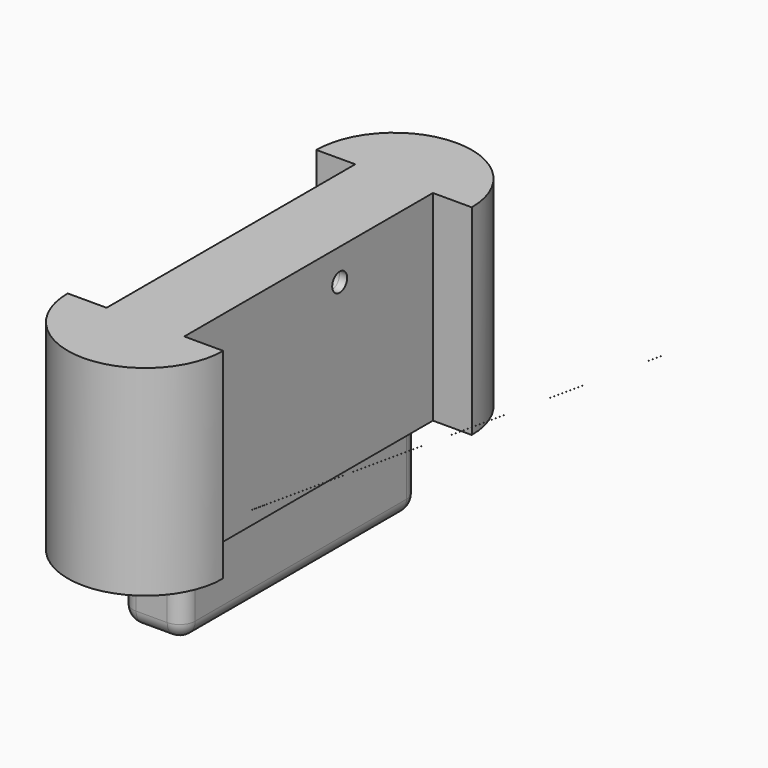
from build123d import *

# Parameters (mm, degrees)
CYLINDER045_R                = 0.6
CYLINDER045_DEPTH            = 10
CYLINDER044_R                = 0.6
CYLINDER044_DEPTH            = 2
CYLINDER044_ROLL_ANGLE       = 90
SKETCH016_R                  = 0.6
SWEEP007_PITCH_ANGLE         = 90
SKETCH014_R                  = 0.6
SWEEP006_ROLL_ANGLE          = -90
SKETCH018_R                  = 0.6
SWEEP008_ROLL_ANGLE          = -89.995832
SWEEP008_PITCH_ANGLE         = -0.004169
SWEEP008_PLACEMENT_ANGLE     = 90.008336
CYLINDER018_W                = 5
CYLINDER018_H                = 12.9
CYLINDER018_ANGLE            = 180
CYLINDER019_W                = 5
CYLINDER019_H                = 12.9
CYLINDER019_ANGLE            = 180
CYLINDER043_R                = 0.75
CYLINDER043_DEPTH            = 10
CYLINDER042_R                = 0.75
CYLINDER042_DEPTH            = 10
BOX019_W                     = 4
BOX019_H                     = 19
BOX019_DEPTH                 = 5
FILLET004_R                  = 1
FILLET005_R                  = 1
FILLET006_R                  = 1
FILLET007_R                  = 1
BOX018_W                     = 5
BOX018_H                     = 20
BOX018_DEPTH                 = 12.9
FUSION002013_PLACEMENT_ANGLE = 180
CUT064_PLACEMENT_ANGLE       = 180


with BuildPart() as cilindro045:
    # Cylinder045 → Cylinder045 (new body)
    with BuildSketch(Plane(origin=(22, -4, -17), x_dir=(1, 0, 0), z_dir=(0, 0, 1))):
        Circle(CYLINDER045_R)
    extrude(amount=CYLINDER045_DEPTH)


with BuildPart() as cilindro044:
    # Cylinder044 → Cylinder044 (new body)
    with BuildSketch(Plane.XY):
        Circle(CYLINDER044_R)
    extrude(amount=CYLINDER044_DEPTH)


with BuildPart() as cilindro044_1:
    # Cylinder044 roll: moved
    add(cilindro044.part.rotate(Axis((0, 0, 0), (1, 0, 0)), CYLINDER044_ROLL_ANGLE))


with BuildPart() as cilindro044_2:
    # Cylinder044 placement: moved
    add(cilindro044_1.part.moved(Location((22, -8, -4))))


with BuildPart() as sweep007:
    # Sweep007: sweep along a path in Sketch015
    with BuildLine(Plane.XY) as sweep007_path:
        Line((0, 0), (2.000007, 0))
        ThreePointArc((2.000007, 0), (3.413537, 0.585387), (3.999404, 1.998718))
        Line((3.999404, 1.998718), (3.999404, 3.99963))
    # Sketch016 → Sweep007 (sweep)
    with BuildSketch(Plane.YZ):
        Circle(SKETCH016_R)
    sweep(path=sweep007_path.line, transition=Transition.RIGHT)


with BuildPart() as sweep007_1:
    # Sweep007 pitch: moved
    add(sweep007.part.rotate(Axis((0, 0, 0), (0, 1, 0)), SWEEP007_PITCH_ANGLE))


with BuildPart() as sweep007_2:
    # Sweep007 placement: moved
    add(sweep007_1.part.moved(Location((22, -13, 0))))


with BuildPart() as sweep006:
    # Sweep006: sweep along a path in Sketch013
    with BuildLine(Plane.XY) as sweep006_path:
        Line((0, 0), (2.000007, 0))
        ThreePointArc((2.000007, 0), (3.413537, 0.585387), (3.999404, 1.998718))
        Line((3.999404, 1.998718), (3.999404, 3.99963))
    # Sketch014 → Sweep006 (sweep)
    with BuildSketch(Plane.YZ):
        Circle(SKETCH014_R)
    sweep(path=sweep006_path.line, transition=Transition.RIGHT)


with BuildPart() as sweep006_1:
    # Sweep006 roll: moved
    add(sweep006.part.rotate(Axis((0, 0, 0), (1, 0, 0)), SWEEP006_ROLL_ANGLE))


with BuildPart() as sweep006_2:
    # Sweep006 placement: moved
    add(sweep006_1.part.moved(Location((18, -13, 3))))


with BuildPart() as fusion002014:
    # Sweep008: sweep along a path in Sketch017
    with BuildLine(Plane.XY) as sweep008_path:
        Line((0, 0), (2.000007, 0))
        ThreePointArc((2.000007, 0), (3.413537, 0.585387), (3.999404, 1.998718))
        Line((3.999404, 1.998718), (3.999404, 3.99963))
    # Sketch018 → Sweep008 (sweep)
    with BuildSketch(Plane.YZ):
        Circle(SKETCH018_R)
    sweep(path=sweep008_path.line, transition=Transition.RIGHT)


with BuildPart() as fusion002014_1:
    # Sweep008 roll: moved
    add(fusion002014.part.rotate(Axis((0, 0, 0), (1, 0, 0)), SWEEP008_ROLL_ANGLE))


with BuildPart() as fusion002014_2:
    # Sweep008 pitch: moved
    add(fusion002014_1.part.rotate(Axis((0, 0, 0), (0, 1, 0)), SWEEP008_PITCH_ANGLE))


with BuildPart() as fusion002014_3:
    # Sweep008 placement: moved
    add(fusion002014_2.part.moved(Location((22, -8, -4))).rotate(Axis((22, -8, -4), (0, 0, 1)), SWEEP008_PLACEMENT_ANGLE))

    # Fusion002014: union Cilindro045, Cilindro044, Sweep007, Sweep006
    add(cilindro045.part)
    add(cilindro044_2.part)
    add(sweep007_2.part)
    add(sweep006_2.part)


with BuildPart() as fusion002014_4:
    # Fusion002014 placement: moved
    add(fusion002014_3.part.moved(Location((-1.1, 0, 0))))


with BuildPart() as cilindro018:
    # Cylinder018 → Cylinder018 (revolve)
    with BuildSketch(Plane(origin=(21.5, 76, -4), x_dir=(1, 0, 0), z_dir=(0, -1, 0))):
        with Locations((2.5, 6.45)):
            Rectangle(CYLINDER018_W, CYLINDER018_H)
    revolve(axis=Axis((21.5, 76, -4), (0, 0, 1)), revolution_arc=CYLINDER018_ANGLE)


with BuildPart() as cilindro019:
    # Cylinder019 → Cylinder019 (revolve)
    with BuildSketch(Plane(origin=(21.5, 56, 8.9), x_dir=(1, 0, 0), z_dir=(0, 1, 0))):
        with Locations((2.5, 6.45)):
            Rectangle(CYLINDER019_W, CYLINDER019_H)
    revolve(axis=Axis((21.5, 56, 8.9), (0, 0, -1)), revolution_arc=CYLINDER019_ANGLE)


with BuildPart() as cilindro043:
    # Cylinder043 → Cylinder043 (new body)
    with BuildSketch(Plane(origin=(-39, 66, 48), x_dir=(1, 0, 0), z_dir=(0, 0, 1))):
        Circle(CYLINDER043_R)
    extrude(amount=CYLINDER043_DEPTH)


with BuildPart() as cilindro042:
    # Cylinder042 → Cylinder042 (new body)
    with BuildSketch(Plane(origin=(-39, 53, 48), x_dir=(1, 0, 0), z_dir=(0, 0, 1))):
        Circle(CYLINDER042_R)
    extrude(amount=CYLINDER042_DEPTH)


with BuildPart() as cut063:
    # Box019 → Box019 (new body)
    with BuildSketch(Plane(origin=(-2, 50, 45), x_dir=(1, 0, 0), z_dir=(0, 0, 1))):
        with Locations((2, 9.5)):
            Rectangle(BOX019_W, BOX019_H)
    extrude(amount=BOX019_DEPTH)

    # Fillet004
    fillet004_edges = [cut063.edges().sort_by_distance(p)[0] for p in [
        (2, 59.5, 50),
    ]]
    fillet(fillet004_edges, radius=FILLET004_R)

    # Fillet005
    fillet005_edges = [cut063.edges().sort_by_distance(p)[0] for p in [
        (-2, 59.5, 50),
    ]]
    fillet(fillet005_edges, radius=FILLET005_R)

    # Fillet006
    fillet006_edges = [cut063.edges().sort_by_distance(p)[0] for p in [
        (0, 69, 50),
    ]]
    fillet(fillet006_edges, radius=FILLET006_R)

    # Fillet007
    fillet007_edges = [cut063.edges().sort_by_distance(p)[0] for p in [
        (0, 50, 50),
    ]]
    fillet(fillet007_edges, radius=FILLET007_R)


with BuildPart() as cut063_1:
    # Fillet007 placement: moved
    add(cut063.part.moved(Location((-39, 0, 0))))

    # Cut062: cut Cilindro042
    add(cilindro042.part, mode=Mode.SUBTRACT)

    # Cut063: cut Cilindro043
    add(cilindro043.part, mode=Mode.SUBTRACT)


with BuildPart() as cut063_2:
    # Cut063 placement: moved
    add(cut063_1.part.moved(Location((60.5, 6.5, -36.1))))


with BuildPart() as cut064:
    # Box018 → Box018 (new body)
    with BuildSketch(Plane(origin=(19, 56, -4), x_dir=(1, 0, 0), z_dir=(0, 0, 1))):
        with Locations((2.5, 10)):
            Rectangle(BOX018_W, BOX018_H)
    extrude(amount=BOX018_DEPTH)

    # Fusion002013: union Cilindro018, Cilindro019, Cut063
    add(cilindro018.part)
    add(cilindro019.part)
    add(cut063_2.part)


with BuildPart() as cut064_1:
    # Fusion002013 placement: moved
    add(cut064.part.moved(Location((42.4, -76.5, 1))).rotate(Axis((42.4, -76.5, 1), (0, 1, 0)), FUSION002013_PLACEMENT_ANGLE))

    # Cut064: cut Fusion002014
    add(fusion002014_4.part, mode=Mode.SUBTRACT)


with BuildPart() as cut064_2:
    # Cut064 placement: moved
    add(cut064_1.part.moved(Location((1, -22, -2.1))).rotate(Axis((1, -22, -2.1), (0, 0, 1)), CUT064_PLACEMENT_ANGLE))


solid = cut064_2.part
